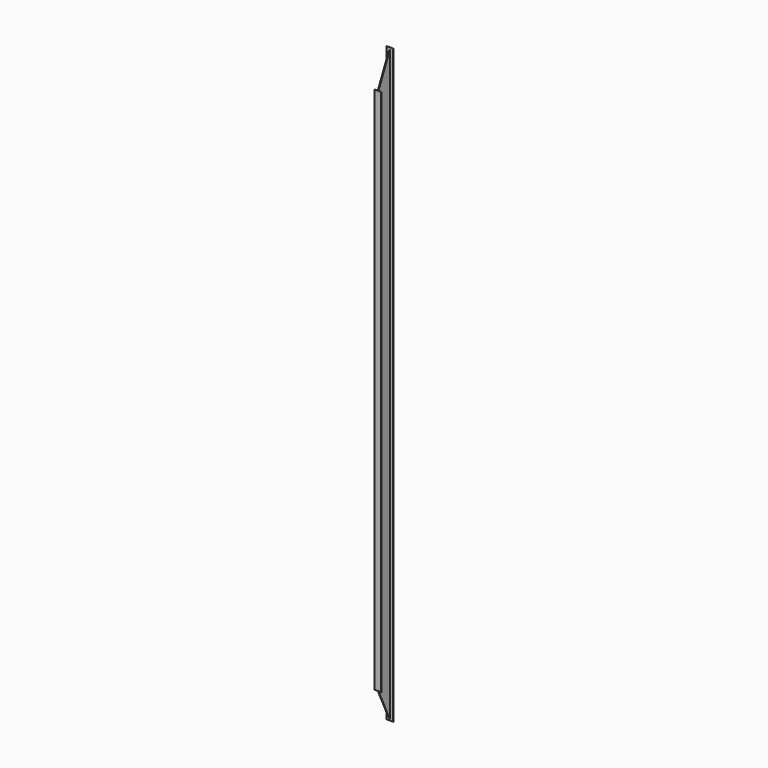
from build123d import *

# Parameters (mm, degrees)
F0_W     = 88.9
F0_H     = 203.2
F1_DEPTH = 10668
F2_W     = 39.6875
F2_H     = 193.04
F3_DEPTH = 10668.001
F5_DEPTH = 88.901


with BuildPart() as f1:
    # F0 (on Top) → F1 (new body)
    with BuildSketch(Plane.XY):
        Rectangle(F0_W, F0_H)
    extrude(amount=F1_DEPTH)

    # F2 (on Top) → F3 (cut, through all)
    with BuildSketch(Plane.XY):
        with Locations((-24.60625, 0)):
            Rectangle(F2_W, F2_H)
        with Locations((24.60625, 0)):
            Rectangle(F2_W, F2_H)
    extrude(amount=F3_DEPTH, mode=Mode.SUBTRACT)

    # F4 (on face) → F5 (cut, through all)
    with BuildSketch(Plane.YZ.offset(44.45)):
        Polygon((-1612.5576496124, 13062.8571428571), (-1727.2, 3918.8571428571), (-101.6, 7402.2857142857), (-101.6, 10668), (-96.52, 10668), (-96.52, 7413.1714285714), (2540, 13062.8571428571), align=None)
        Polygon((-101.6, 10668), (-101.6, 7402.2857142857), (-96.52, 7413.1714285714), (-96.52, 10668), align=None)
        Polygon((-101.6, 435.4285714286), (-1727.2, 3918.8571428571), (-1727.2, -5225.1428571429), (2540, -5225.1428571429), (-96.52, 424.5428571429), (-96.52, 0), (-101.6, 0), align=None)
        Polygon((-96.52, 424.5428571429), (-101.6, 435.4285714286), (-101.6, 0), (-96.52, 0), align=None)
    extrude(amount=-F5_DEPTH, mode=Mode.SUBTRACT)


solid = f1.part
